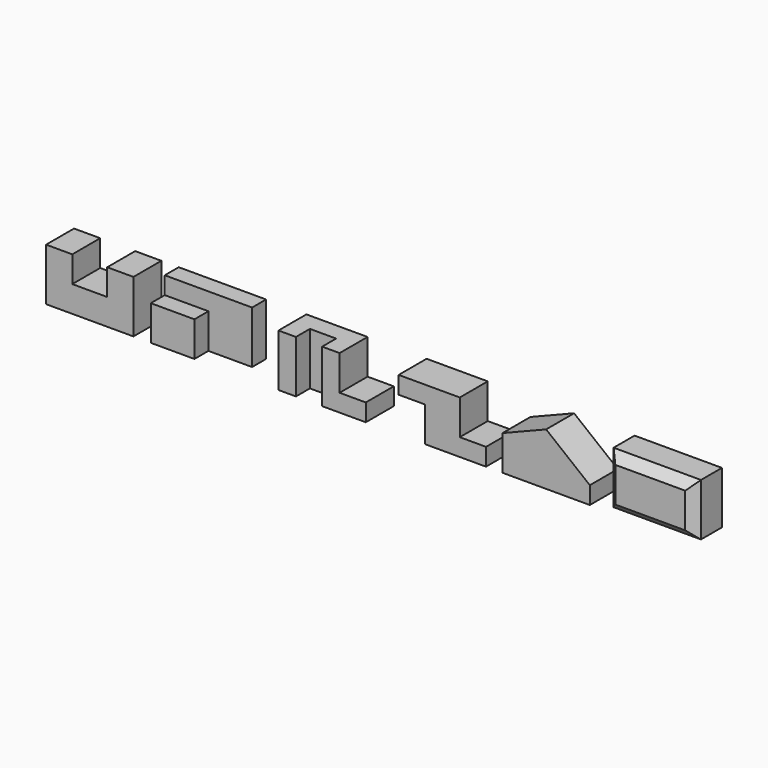
from build123d import *

# Parameters (mm, degrees)
F1_DEPTH  = 101.6
F3_DEPTH  = 152.4
F4_W      = 127
F4_H      = 50.8
F5_DEPTH  = 50.8
F6_W      = 50.8
F6_H      = 152.4
F7_DEPTH  = 101.6
F8_W      = 76.2
F8_H      = 152.4
F9_DEPTH  = 50.8
F11_DEPTH = 101.6
F13_DEPTH = 101.6
F14_W     = 254
F14_H     = 152.4
F15_DEPTH = 101.6
F16_SIZE  = 25.4


with BuildPart() as f1:
    # F0 (on Front) → F1 (new body)
    with BuildSketch(Plane.XZ):
        Polygon((-127, 0), (0, 0), (127, 0), (127, 152.4), (50.8, 152.4), (50.8, 76.2), (-50.8, 76.2), (-50.8, 152.4), (-127, 152.4), align=None)
    extrude(amount=-F1_DEPTH)


with BuildPart() as f3:
    # F2 (on Top) → F3 (new body)
    with BuildSketch(Plane.XY):
        Polygon((177.437432, 101.6), (177.437432, 0), (304.437432, 0), (304.437432, 50.8), (431.437432, 50.8), (431.437432, 101.6), align=None)
    extrude(amount=F3_DEPTH)

    # F4 (on face) → F5 (cut)
    with BuildSketch(Plane.XZ):
        with Locations((240.937432, 127)):
            Rectangle(F4_W, F4_H)
    extrude(amount=-F5_DEPTH, mode=Mode.SUBTRACT)


with BuildPart() as f7:
    # F6 (on Front) → F7 (new body)
    with BuildSketch(Plane.XZ):
        with Locations((574.165634, 76.2)):
            Rectangle(F6_W, F6_H)
        Polygon((599.565634, 152.4), (599.565634, 0), (802.765634, 0), (802.765634, 50.8), (726.565634, 50.8), (726.565634, 152.4), align=None)
    extrude(amount=-F7_DEPTH)

    # F8 (on face) → F9 (cut)
    with BuildSketch(Plane.XZ):
        with Locations((637.665634, 76.2)):
            Rectangle(F8_W, F8_H)
    extrude(amount=-F9_DEPTH, mode=Mode.SUBTRACT)


with BuildPart() as f11:
    # F10 (on Front) → F11 (new body)
    with BuildSketch(Plane.XZ):
        Polygon((1076.062926, 152.4), (898.262926, 152.4), (898.262926, 101.6), (974.462926, 101.6), (974.462926, 0), (1152.262926, 0), (1152.262926, 50.8), (1076.062926, 50.8), align=None)
    extrude(amount=-F11_DEPTH)


with BuildPart() as f13:
    # F12 (on Front) → F13 (new body)
    with BuildSketch(Plane.XZ):
        Polygon((1200.177227, 101.6), (1200.177227, 0), (1454.177227, 0), (1454.177227, 50.8), (1327.177227, 152.4), align=None)
    extrude(amount=-F13_DEPTH)


with BuildPart() as f15:
    # F14 (on Front) → F15 (new body)
    with BuildSketch(Plane.XZ):
        with Locations((1630.055249, 76.2)):
            Rectangle(F14_W, F14_H)
    extrude(amount=-F15_DEPTH)

    # F16
    f16_edges = [f15.edges().sort_by_distance(p)[0] for p in [
        (1630.055249, 0, 152.4),
        (1757.055249, 0, 76.2),
        (1630.055249, 0, 0),
        (1503.055249, 0, 76.2),
    ]]
    chamfer(f16_edges, length=F16_SIZE)


solid = Compound([f1.part, f3.part, f7.part, f11.part, f13.part, f15.part])
